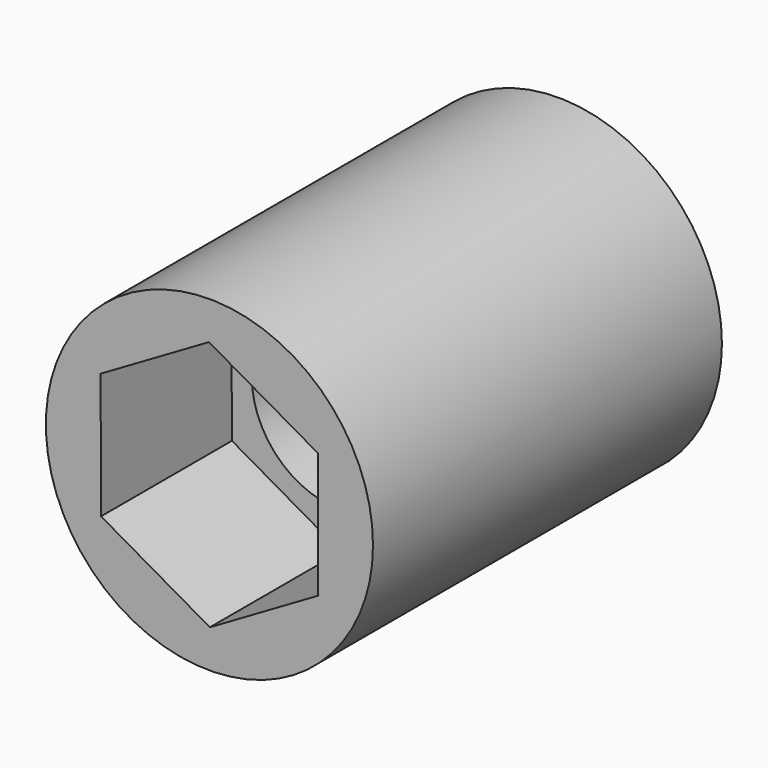
from build123d import *

# Parameters (mm, degrees)
F0_R     = 9.525
F1_DEPTH = 25.4
F3_DEPTH = 9.525
F5_W     = 10.315952
F5_H     = 10.315952
F6_DEPTH = 10.9728
F4_R     = 5.157976
F7_DEPTH = 25.401


with BuildPart() as f1:
    # F0 (on Front) → F1 (new body)
    with BuildSketch(Plane.XZ):
        Circle(F0_R)
    extrude(amount=F1_DEPTH)

    # F2 (on face) → F3 (cut)
    with BuildSketch(Plane.XZ.offset(25.4)):
        Polygon((6.310741, 3.674476), (-0.026819, 7.3025), (-6.33756, 3.628024), (-6.310741, -3.674476), (0.026819, -7.3025), (6.33756, -3.628024), align=None)
    extrude(amount=-F3_DEPTH, mode=Mode.SUBTRACT)

    # F5 (on Front) → F6 (cut)
    with BuildSketch(Plane.XZ):
        Rectangle(F5_W, F5_H)
    extrude(amount=F6_DEPTH, mode=Mode.SUBTRACT)

    # F4 (on face) → F7 (cut, through all)
    with BuildSketch(Plane(origin=(0, 0, 0), x_dir=(-1, 0, 0), z_dir=(0, 1, 0))):
        Circle(F4_R)
    extrude(amount=-F7_DEPTH, mode=Mode.SUBTRACT)


solid = f1.part
